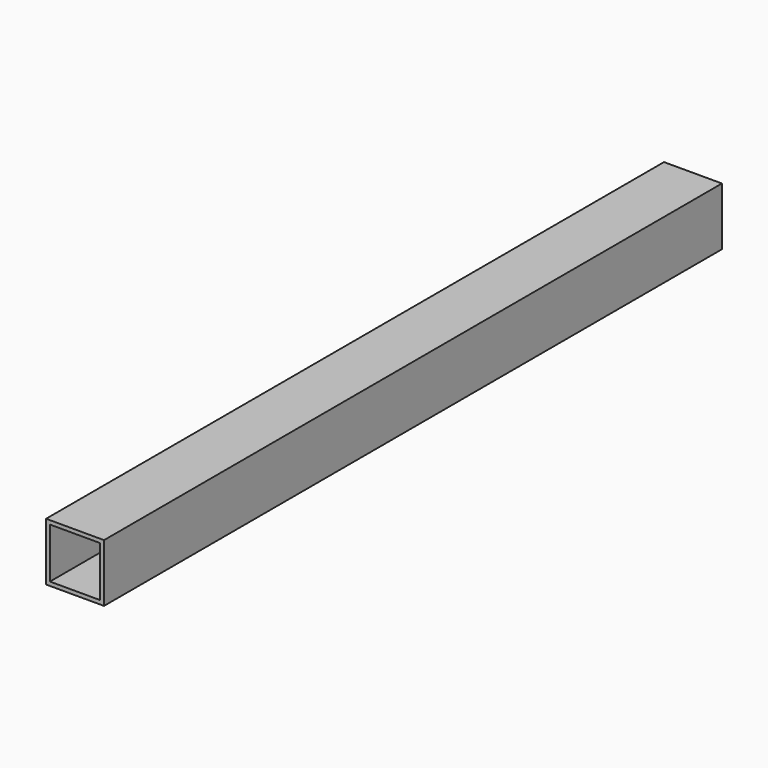
from build123d import *

# Parameters (mm, degrees)
SKETCH_W   = 30
SKETCH_H   = 30
SKETCH_W_2 = 26
SKETCH_H_2 = 26
PAD_DEPTH  = 400


with BuildPart() as part:
    # Sketch → Pad (new body)
    with BuildSketch(Plane.XZ):
        with Locations((15, 15)):
            Rectangle(SKETCH_W, SKETCH_H)
        with Locations((15, 15)):
            Rectangle(SKETCH_W_2, SKETCH_H_2, mode=Mode.SUBTRACT)
    extrude(amount=PAD_DEPTH)


solid = part.part
